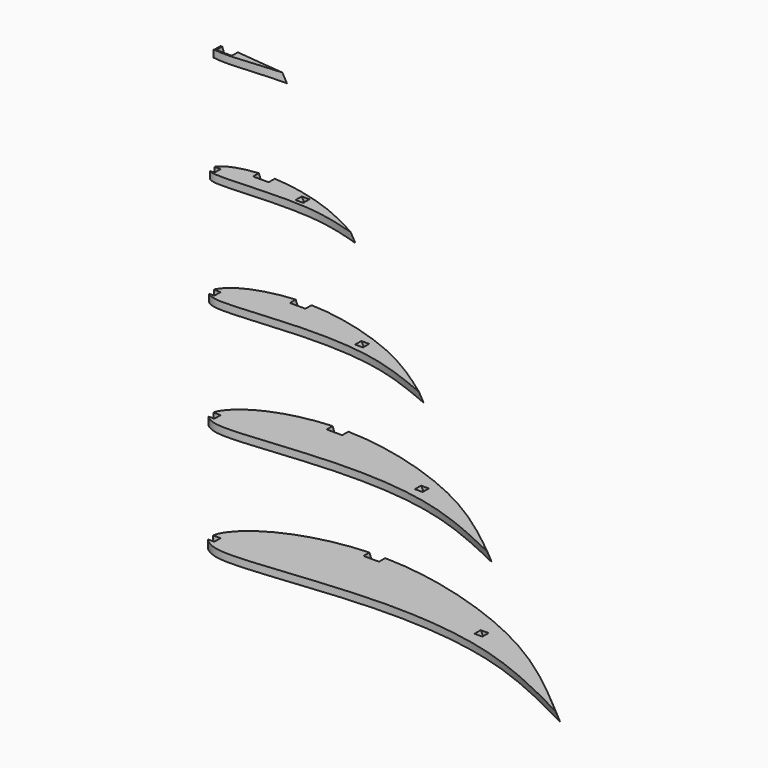
from build123d import *

# Parameters (mm, degrees)
F12_DEPTH      = 180
F13_W          = 184.5028996468
F13_H          = 41.25
F14_DEPTH      = 100
F14_DEPTH_BACK = 100
F15_W          = 3.175
F15_H          = 3.175


with BuildPart() as f5:
    # F1 (on Top) → F5 section 0
    with BuildSketch(Plane.XY):
        with BuildLine():
            add(Edge.make_bspline(
                [(0, 0), (0.0208886827, 0.4028082368), (0.0735403471, 1.4181199419), (0.734540418, 4.9599439631), (11.0121350131, 16.7910456626), (54.4649014113, 30.1749524226), (123.6793210221, 8.8799230927), (150.9315494447, -14.5692317549), (163.492429, -25.377229)],
                knots=[0, 0, 0, 0, 0.0396042901, 0.0998259112, 0.2265915028, 0.4551891182, 0.7488901179, 1, 1, 1, 1], degree=3))
            add(Edge.make_bspline(
                [(0, 0), (0.0075383733, -0.3814547155), (0.028182579, -1.4260871913), (3.5013259462, -4.3479681242), (13.6675122001, -7.0870377156), (66.9488585103, 1.227309802), (120.4876852231, -3.382706791), (149.5911766542, -18.2675155917), (163.492429, -25.377229)],
                knots=[0, 0, 0, 0, 0.040006599, 0.1095600366, 0.219583879, 0.4811012455, 0.7521485508, 1, 1, 1, 1], degree=3))
        make_face()
    # F4 (on offset) → F5 section 1
    with BuildSketch(Plane.XY.offset(180)):
        with BuildLine():
            add(Edge.make_bspline(
                [(0, 0), (0.1622026563, 0.2031368554), (0.4524895315, 0.5666818448), (0.8193475095, 0.8999718685), (1.8610791437, 1.5035218716), (8.7363619697, 2.158906877), (21.4106425873, 0.3417252552), (27.3526699931, -0.1624289163), (29.99808, -0.38688)],
                knots=[0, 0, 0, 0, 0.0733301161, 0.1312356452, 0.2148458962, 0.4335418942, 0.7478110013, 1, 1, 1, 1], degree=3))
            add(Edge.make_bspline(
                [(0, 0), (0.1602089535, -0.2062484945), (0.4443637525, -0.5720613795), (0.7891057177, -0.8983610707), (1.8341262335, -1.55836262), (8.6733871366, -2.3931151534), (21.4164961208, -0.9587618922), (27.3558100207, -0.5629624548), (29.99808, -0.38688)],
                knots=[0, 0, 0, 0, 0.0732945183, 0.1299989088, 0.2146107103, 0.4333777697, 0.7479222459, 1, 1, 1, 1], degree=3))
        make_face()
    loft()

    # F10: sweep along a path in F9
    with BuildLine(Plane(origin=(44.5862214397, 0, 10.7370757874), x_dir=(0, -1, 0), z_dir=(-0.9722069838, 0, -0.2341230032))) as f10_path:
        Line((-20.8297417844, -11.0440224831), (1.397, 174.1017365975))
    # F6 (on face) → F10 (sweep, cut)
    with BuildSketch(Plane(origin=(0, 0, 0), x_dir=(1, 0, 0), z_dir=(0, 0, -1))):
        with BuildLine():
            Line((47.1718811512, -23.9052419391), (47.1718811512, -24.0047417844))
            Line((47.1718811512, -24.0047417844), (47.1718811512, -27.0663835108))
            Line((47.1718811512, -27.0663835108), (53.5218811512, -27.0663835108))
            Line((53.5218811512, -27.0663835108), (53.5218811512, -24.0047417844))
            Line((53.5218811512, -24.0047417844), (53.5218811512, -24.0007800844))
            add(Edge.make_bspline(
                [(47.1718811512, -23.9052419391), (48.8768552688, -23.9873208909), (50.9888178274, -24.0332614087), (53.1342654513, -24.0076834136), (53.5218811512, -24.0007800844)],
                knots=[0.4323559203, 0.4323559203, 0.4323559203, 0.4323559203, 0.4551891182, 0.4602075802, 0.4602075802, 0.4602075802, 0.4602075802], degree=3))
        make_face()
        with BuildLine():
            Line((47.1718811512, -20.8297417844), (47.1718811512, -23.9052419391))
            add(Edge.make_bspline(
                [(47.1718811512, -23.9052419391), (48.8768552688, -23.9873208909), (50.9888178274, -24.0332614087), (53.1342654513, -24.0076834136), (53.5218811512, -24.0007800844)],
                knots=[0.4323559203, 0.4323559203, 0.4323559203, 0.4323559203, 0.4551891182, 0.4602075802, 0.4602075802, 0.4602075802, 0.4602075802], degree=3))
            Line((53.5218811512, -24.0007800844), (53.5218811512, -20.8297417844))
            Line((53.5218811512, -20.8297417844), (47.1718811512, -20.8297417844))
        make_face()
    sweep(path=f10_path.line, mode=Mode.SUBTRACT)

    # F11 (on Top) → F12 (cut)
    with BuildSketch(Plane.XY):
        Polygon((3.175, -1.5875), (3.175, 0), (3.175, 1.5875), (0, 1.5875), (0, -1.5875), align=None)
    extrude(amount=F12_DEPTH, mode=Mode.SUBTRACT)

    # F13 (on Front) → F14 (cut, two sides)
    with BuildSketch(Plane.XZ) as f14_sk:
        with Locations((92.2514498234, 23.625)):
            Rectangle(F13_W, F13_H)
        with Locations((92.2514498234, 67.875)):
            Rectangle(F13_W, F13_H)
        with Locations((92.2514498234, 112.125)):
            Rectangle(F13_W, F13_H)
        with Locations((92.2514498234, 156.375)):
            Rectangle(F13_W, F13_H)
    extrude(amount=-F14_DEPTH, mode=Mode.SUBTRACT)
    extrude(f14_sk.sketch, amount=F14_DEPTH_BACK, mode=Mode.SUBTRACT)

    # F19: sweep along a path in F18
    with BuildLine(Plane(origin=(84.2127562417, 0, 45.9969481997), x_dir=(0, -1, 0), z_dir=(-0.8776206629, 0, -0.4793557885))) as f19_path:
        Line((0.1816068153, 102.2686174004), (-0.6475054931, -52.4109676793))
    # F15 (on face) → F19 (sweep, cut)
    with BuildSketch(Plane(origin=(0, 0, 0), x_dir=(1, 0, 0), z_dir=(0, 0, -1))):
        with Locations((110.9237569809, -2.2350054931)):
            Rectangle(F15_W, F15_H)
    sweep(path=f19_path.line, mode=Mode.SUBTRACT)


solid = f5.part
